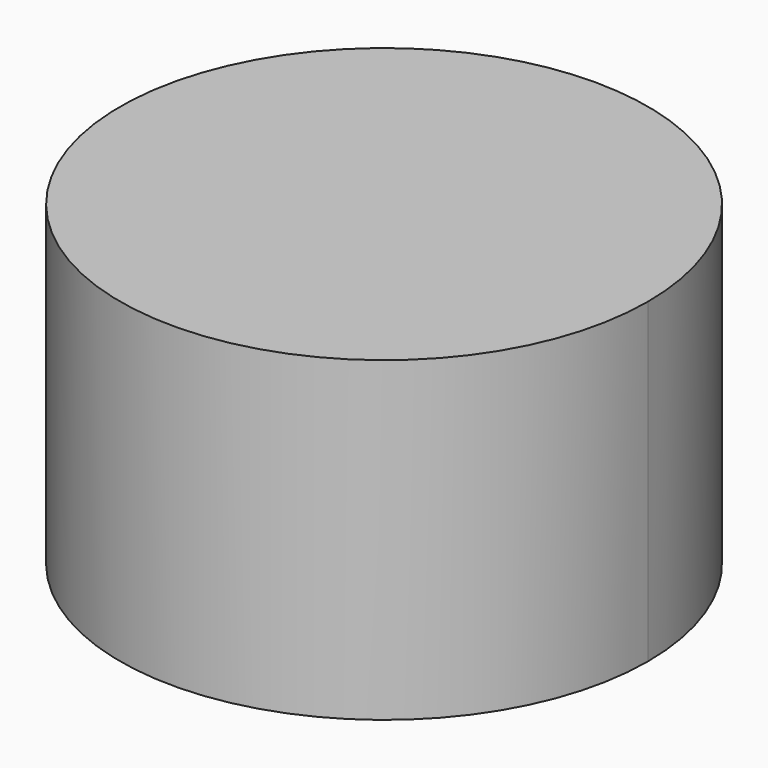
from build123d import *

# Parameters (mm, degrees)
F1_DEPTH = 15
F2_T     = -2.5


with BuildPart() as f1:
    # F0 (on Top) → F1 (new body)
    with BuildSketch(Plane.XY):
        with BuildLine():
            ThreePointArc((-4.1155008573, 11.8030781025), (-7.2389999062, -10.1905289538), (12.5, 0))
            ThreePointArc((12.5, 0), (10.1905289538, 7.2389999062), (4.1155008573, 11.8030781025))
            ThreePointArc((4.1155008573, 11.8030781025), (0, 12.5), (-4.1155008573, 11.8030781025))
        make_face()
    extrude(amount=-F1_DEPTH)

    # F2 (hollow: no face is removed)
    offset(amount=F2_T, mode=Mode.SUBTRACT)


solid = f1.part
